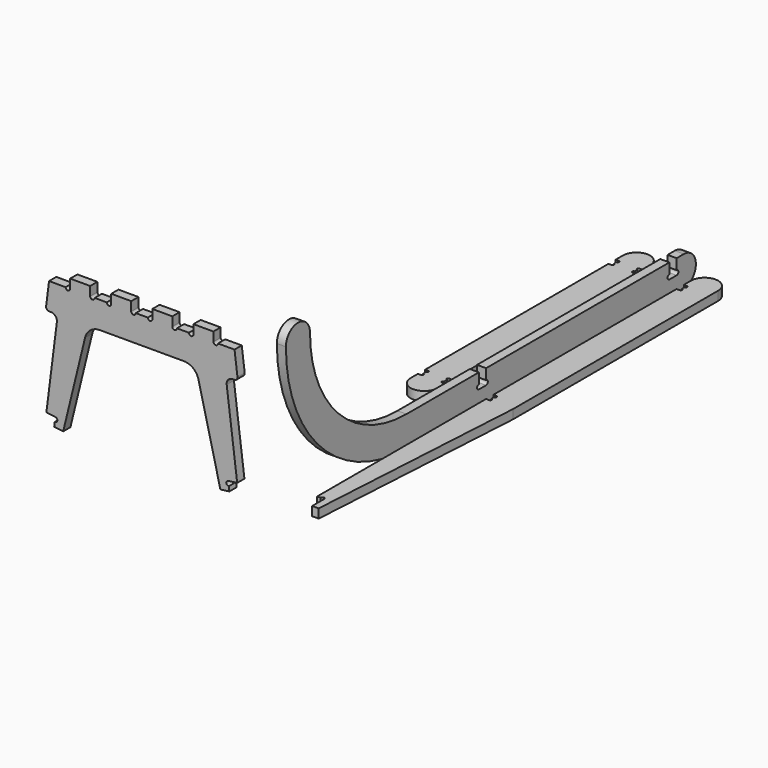
from build123d import *

# Parameters (mm, degrees)
F1_DEPTH  = 6
F3_DEPTH  = 6
F5_DEPTH  = 25
F7_DEPTH  = 25
F9_DEPTH  = 6
F11_DEPTH = 6


with BuildPart() as f1:
    # F0 (on Right) → F1 (new body)
    with BuildSketch(Plane.YZ):
        with BuildLine():
            Line((100, 0), (330, 0))
            ThreePointArc((330, 0), (340, 10), (330, 20))
            Line((330, 20), (100, 20))
            ThreePointArc((100, 20), (43.431458, 43.431458), (20, 100))
            ThreePointArc((20, 100), (10, 110), (0, 100))
            ThreePointArc((0, 100), (29.289322, 29.289322), (100, 0))
        make_face()
    extrude(amount=F1_DEPTH)

    # F4 (on face) → F5 (cut)
    with BuildSketch(Plane.YZ.offset(6)):
        with BuildLine():
            Line((166, 20), (160, 20))
            Line((160, 20), (160, 13))
            ThreePointArc((160, 13), (158.5, 11.5), (160, 10))
            Line((160, 10), (166, 10))
            ThreePointArc((166, 10), (167.5, 11.5), (166, 13))
            Line((166, 13), (166, 20))
        make_face()
        with BuildLine():
            Line((324, 20), (318, 20))
            Line((318, 20), (318, 13))
            ThreePointArc((318, 13), (316.5, 11.5), (318, 10))
            Line((318, 10), (324, 10))
            ThreePointArc((324, 10), (325.5, 11.5), (324, 13))
            Line((324, 13), (324, 20))
        make_face()
    extrude(amount=-F5_DEPTH, mode=Mode.SUBTRACT)


with BuildPart() as f3:
    # F2 (on Front) → F3 (new body)
    with BuildSketch(Plane.XZ):
        with BuildLine():
            Line((-47.199422, 65.948764), (-32.680076, 6.501512))
            Line((-32.680076, 6.501512), (-26.727435, 7.25388))
            Line((-26.727435, 7.25388), (-27.103619, 10.2302))
            ThreePointArc((-27.103619, 10.2302), (-28.779871, 11.530269), (-27.479803, 13.206521))
            Line((-27.479803, 13.206521), (-21.527161, 13.958889))
            Line((-21.527161, 13.958889), (-28.493355, 69.074536))
            ThreePointArc((-28.493355, 69.074536), (-27.525454, 72.22127), (-24.524927, 73.576115))
            Line((-24.524927, 73.576115), (-23.331016, 73.576115))
            ThreePointArc((-23.331016, 73.576115), (-21.830753, 74.253538), (-21.346803, 75.826904))
            Line((-21.346803, 75.826904), (-24.055007, 97.25388))
            Line((-24.055007, 97.25388), (-84.8257, 97.25388))
            Line((-84.8257, 97.25388), (-145.596393, 97.25388))
            Line((-145.596393, 97.25388), (-148.304598, 75.826904))
            ThreePointArc((-148.304598, 75.826904), (-147.820647, 74.253538), (-146.320384, 73.576115))
            Line((-146.320384, 73.576115), (-145.126473, 73.576115))
            ThreePointArc((-145.126473, 73.576115), (-142.125947, 72.22127), (-141.158045, 69.074536))
            Line((-141.158045, 69.074536), (-148.124239, 13.958889))
            Line((-148.124239, 13.958889), (-142.171598, 13.206521))
            ThreePointArc((-142.171598, 13.206521), (-140.871529, 11.530269), (-142.547782, 10.2302))
            Line((-142.547782, 10.2302), (-142.923966, 7.25388))
            Line((-142.923966, 7.25388), (-136.971324, 6.501512))
            Line((-136.971324, 6.501512), (-122.451978, 65.948764))
            ThreePointArc((-122.451978, 65.948764), (-118.913024, 71.441434), (-112.737528, 73.576115))
            Line((-112.737528, 73.576115), (-84.8257, 73.576115))
            Line((-84.8257, 73.576115), (-56.913872, 73.576115))
            ThreePointArc((-56.913872, 73.576115), (-50.738376, 71.441434), (-47.199422, 65.948764))
        make_face()
    extrude(amount=F3_DEPTH)

    # F6 (on face) → F7 (cut)
    with BuildSketch(Plane.XZ.offset(6)):
        with BuildLine():
            Line((-50.561177, 97.25388), (-64.561177, 97.25388))
            Line((-64.561177, 97.25388), (-64.561177, 91.25388))
            ThreePointArc((-64.561177, 91.25388), (-63.061177, 89.75388), (-61.561177, 91.25388))
            Line((-61.561177, 91.25388), (-53.561177, 91.25388))
            ThreePointArc((-53.561177, 91.25388), (-52.061177, 89.75388), (-50.561177, 91.25388))
            Line((-50.561177, 91.25388), (-50.561177, 97.25388))
        make_face()
        with BuildLine():
            Line((-23.296654, 97.25388), (-37.296654, 97.25388))
            Line((-37.296654, 97.25388), (-37.296654, 91.25388))
            ThreePointArc((-37.296654, 91.25388), (-35.796654, 89.75388), (-34.296654, 91.25388))
            Line((-34.296654, 91.25388), (-23.296654, 91.25388))
            Line((-23.296654, 91.25388), (-23.296654, 97.25388))
        make_face()
        with BuildLine():
            Line((-77.8257, 97.25388), (-91.8257, 97.25388))
            Line((-91.8257, 97.25388), (-91.8257, 91.25388))
            ThreePointArc((-91.8257, 91.25388), (-90.3257, 89.75388), (-88.8257, 91.25388))
            Line((-88.8257, 91.25388), (-80.8257, 91.25388))
            ThreePointArc((-80.8257, 91.25388), (-79.3257, 89.75388), (-77.8257, 91.25388))
            Line((-77.8257, 91.25388), (-77.8257, 97.25388))
        make_face()
        with BuildLine():
            Line((-105.090223, 97.25388), (-119.090223, 97.25388))
            Line((-119.090223, 97.25388), (-119.090223, 91.25388))
            ThreePointArc((-119.090223, 91.25388), (-117.590223, 89.75388), (-116.090223, 91.25388))
            Line((-116.090223, 91.25388), (-108.090223, 91.25388))
            ThreePointArc((-108.090223, 91.25388), (-106.590223, 89.75388), (-105.090223, 91.25388))
            Line((-105.090223, 91.25388), (-105.090223, 97.25388))
        make_face()
        with BuildLine():
            Line((-132.354747, 91.25388), (-132.354747, 97.25388))
            Line((-132.354747, 97.25388), (-146.354747, 97.25388))
            Line((-146.354747, 97.25388), (-146.354747, 91.25388))
            Line((-146.354747, 91.25388), (-135.354747, 91.25388))
            ThreePointArc((-135.354747, 91.25388), (-133.854747, 89.75388), (-132.354747, 91.25388))
        make_face()
    extrude(amount=-F7_DEPTH, mode=Mode.SUBTRACT)


with BuildPart() as f9:
    # F8 (on Top) → F9 (new body)
    with BuildSketch(Plane.XY):
        with BuildLine():
            ThreePointArc((-34.439665, 154), (-25.439665, 145), (-16.439665, 154))
            Line((-16.439665, 154), (-16.439665, 160))
            Line((-16.439665, 160), (-18.439665, 160))
            ThreePointArc((-18.439665, 160), (-19.352493, 160.912828), (-18.439665, 161.825657))
            Line((-18.439665, 161.825657), (-18.439665, 164.174343))
            ThreePointArc((-18.439665, 164.174343), (-19.352493, 165.087172), (-18.439665, 166))
            Line((-18.439665, 166), (-16.439665, 166))
            Line((-16.439665, 166), (-16.439665, 318))
            Line((-16.439665, 318), (-18.439665, 318))
            ThreePointArc((-18.439665, 318), (-19.439665, 319), (-18.439665, 320))
            Line((-18.439665, 320), (-18.439665, 322))
            ThreePointArc((-18.439665, 322), (-19.439665, 323), (-18.439665, 324))
            Line((-18.439665, 324), (-16.439665, 324))
            Line((-16.439665, 324), (-16.439665, 330))
            ThreePointArc((-16.439665, 330), (-25.439665, 339), (-34.439665, 330))
            Line((-34.439665, 330), (-34.439665, 324))
            Line((-34.439665, 324), (-32.439665, 324))
            ThreePointArc((-32.439665, 324), (-31.439665, 323), (-32.439665, 322))
            Line((-32.439665, 322), (-32.439665, 320))
            ThreePointArc((-32.439665, 320), (-31.439665, 319), (-32.439665, 318))
            Line((-32.439665, 318), (-34.439665, 318))
            Line((-34.439665, 318), (-34.439665, 166))
            Line((-34.439665, 166), (-32.439665, 166))
            ThreePointArc((-32.439665, 166), (-31.526836, 165.087172), (-32.439665, 164.174343))
            Line((-32.439665, 164.174343), (-32.439665, 161.825657))
            ThreePointArc((-32.439665, 161.825657), (-31.526836, 160.912828), (-32.439665, 160))
            Line((-32.439665, 160), (-34.439665, 160))
            Line((-34.439665, 160), (-34.439665, 154))
        make_face()
    extrude(amount=F9_DEPTH)


with BuildPart() as f11:
    # F10 (on Top) → F11 (new body)
    with BuildSketch(Plane.XY):
        with BuildLine():
            Line((10.760768, 160), (10.760768, 20))
            Line((10.760768, 20), (13.090098, 20))
            ThreePointArc((13.090098, 20), (14.254763, 21.164665), (15.419428, 20))
            Line((15.419428, 20), (15.419428, 10))
            Line((15.419428, 10), (19.760768, 10))
            Line((19.760768, 10), (28.760768, 160))
            Line((28.760768, 160), (28.760768, 330))
            ThreePointArc((28.760768, 330), (19.760768, 339), (10.760768, 330))
            Line((10.760768, 330), (10.760768, 324))
            Line((10.760768, 324), (12.760768, 324))
            ThreePointArc((12.760768, 324), (13.760768, 323), (12.760768, 322))
            Line((12.760768, 322), (12.760768, 320))
            ThreePointArc((12.760768, 320), (13.760768, 319), (12.760768, 318))
            Line((12.760768, 318), (10.760768, 318))
            Line((10.760768, 318), (10.760768, 166))
            Line((10.760768, 166), (12.760768, 166))
            ThreePointArc((12.760768, 166), (13.760768, 165), (12.760768, 164))
            Line((12.760768, 164), (12.760768, 162))
            ThreePointArc((12.760768, 162), (13.760768, 161), (12.760768, 160))
            Line((12.760768, 160), (10.760768, 160))
        make_face()
    extrude(amount=F11_DEPTH)


solid = Compound([f1.part, f3.part, f9.part, f11.part])
